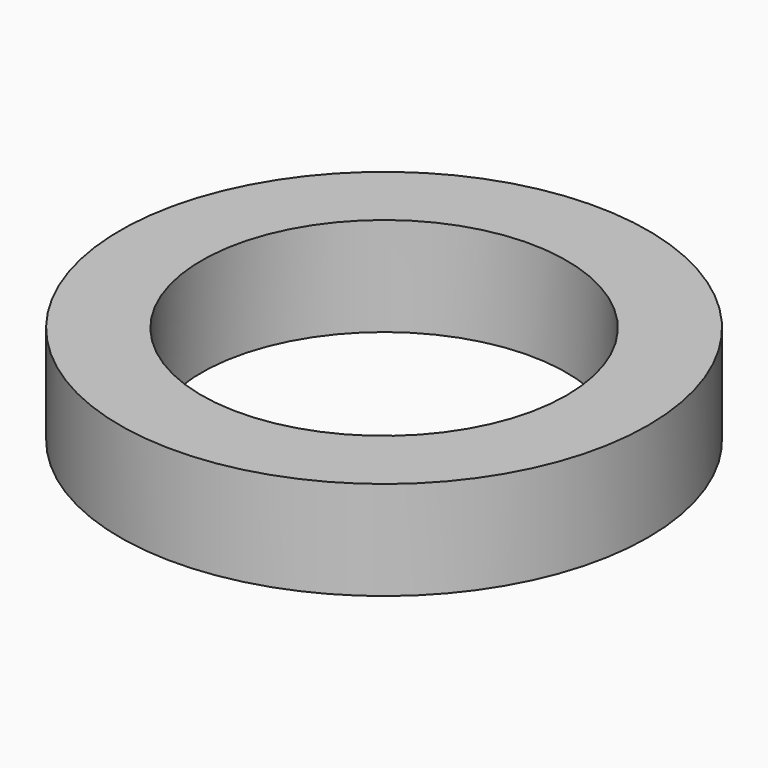
from build123d import *

# Parameters (mm, degrees)
CYLINDER038_R     = 1.85
CYLINDER038_DEPTH = 3.5
CYLINDER037_R     = 2.675
CYLINDER037_DEPTH = 1


with BuildPart() as obj1:
    # Cylinder038 → Cylinder038 (new body)
    with BuildSketch(Plane(origin=(-29.1, 53.1, 24.6), x_dir=(1, 0, 0), z_dir=(0, 0, 1))):
        Circle(CYLINDER038_R)
    extrude(amount=CYLINDER038_DEPTH)


with BuildPart() as arandela_2mm001:
    # Cylinder037 → Cylinder037 (new body)
    with BuildSketch(Plane(origin=(-29.1, 53.1, 25.2), x_dir=(1, 0, 0), z_dir=(0, 0, 1))):
        Circle(CYLINDER037_R)
    extrude(amount=CYLINDER037_DEPTH)

    # Cut020: cut obj1
    add(obj1.part, mode=Mode.SUBTRACT)


with BuildPart() as arandela_2mm001_1:
    # Cut020 placement: moved
    add(arandela_2mm001.part.moved(Location((0, 0, -5.7))))


solid = arandela_2mm001_1.part
